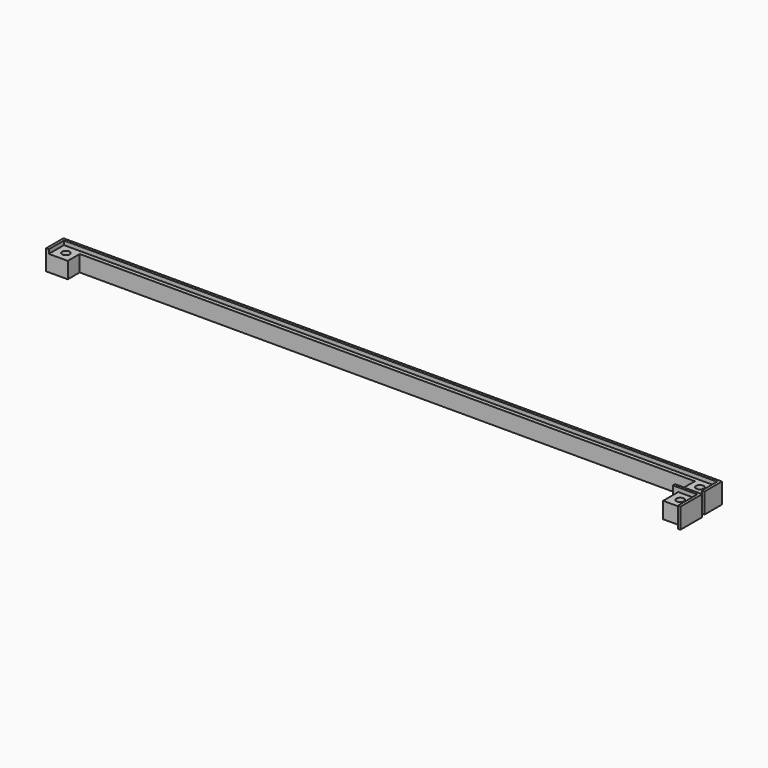
from build123d import *

# Parameters (mm, degrees)
F1_DEPTH  = 6
F2_R      = 1.4
F3_DEPTH  = 4
F5_DEPTH  = 1.5
F6_W      = 10
F6_H      = 10
F7_DEPTH  = 6
F8_R      = 1.4
F9_DEPTH  = 4
F11_DEPTH = 1.5
F13_DEPTH = 25


with BuildPart() as f1:
    # F0 (on Top) → F1 (new body)
    with BuildSketch(Plane.XY):
        Polygon((113.5, -4), (121.5, -4), (121.5, 4), (-121.5, 4), (-121.5, -4), (-113.5, -4), (-113.5, 1.5), (113.5, 1.5), align=None)
    extrude(amount=F1_DEPTH)

    # F2 (on face) → F3 (cut)
    with BuildSketch(Plane.XY.offset(6)):
        with Locations((-117, -0.5)):
            Circle(F2_R)
        with Locations((117, -0.5)):
            Circle(F2_R)
    extrude(amount=-F3_DEPTH, mode=Mode.SUBTRACT)

    # F4 (on face) → F5 (join)
    with BuildSketch(Plane.XY.offset(6)):
        Polygon((121.5, 4), (-121.5, 4), (-121.5, -4), (-120.5, -4), (-120.5, 3), (120.5, 3), (120.5, -4), (121.5, -4), align=None)
    extrude(amount=F5_DEPTH)


with BuildPart() as f7:
    # F6 (on Top) → F7 (new body)
    with BuildSketch(Plane.XY):
        with Locations((116.985112, -10.723599)):
            Rectangle(F6_W, F6_H)
    extrude(amount=F7_DEPTH)

    # F8 (on face) → F9 (cut)
    with BuildSketch(Plane.XY.offset(6)):
        with Locations((117.485112, -10.223599)):
            Circle(F8_R)
    extrude(amount=-F9_DEPTH, mode=Mode.SUBTRACT)

    # F10 (on face) → F11 (join)
    with BuildSketch(Plane.XY.offset(6)):
        Polygon((121.985112, -5.723599), (111.985112, -5.723599), (111.985112, -6.723599), (120.985112, -6.723599), (120.985112, -15.723599), (121.985112, -15.723599), align=None)
    extrude(amount=F11_DEPTH)

    # F12 (on face) → F13 (cut)
    with BuildSketch(Plane.XY.offset(6)):
        Polygon((113.985112, -6.723599), (111.985112, -6.723599), (111.985112, -15.723599), (120.985112, -15.723599), (120.985112, -13.723599), (113.985112, -13.723599), align=None)
    extrude(amount=-F13_DEPTH, mode=Mode.SUBTRACT)


solid = Compound([f1.part, f7.part])
